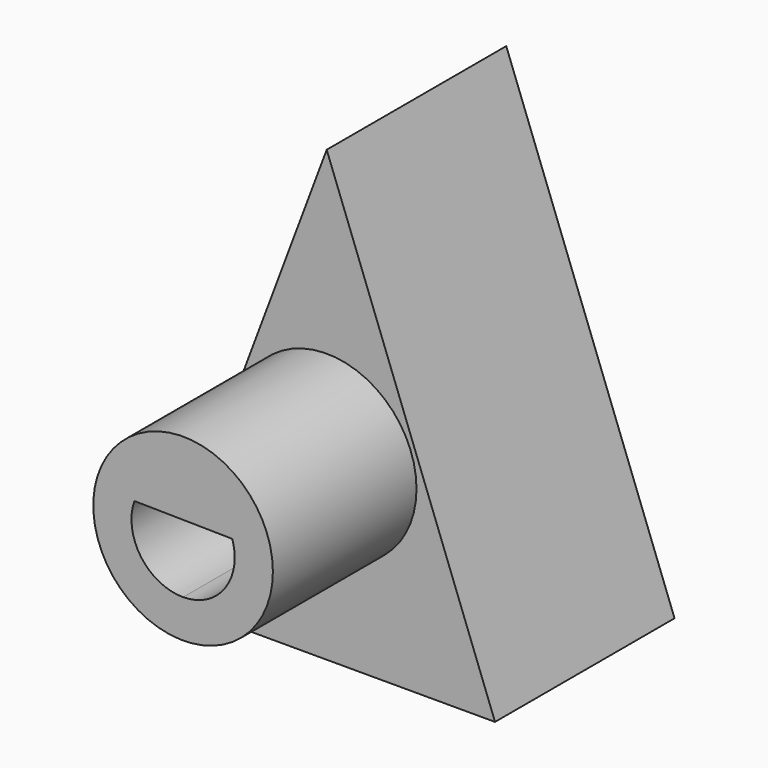
from build123d import *

# Parameters (mm, degrees)
F1_DEPTH = 12.7
F2_R     = 5.08201
F3_DEPTH = 10.16
F5_DEPTH = 10.16


with BuildPart() as f1:
    # F0 (on Front) → F1 (new body)
    with BuildSketch(Plane.XZ):
        Polygon((0, 12.812912), (-9.524995, -12.596868), (9.525005, -12.596868), align=None)
    extrude(amount=F1_DEPTH)

    # F2 (on face) → F3 (join)
    with BuildSketch(Plane.XZ.offset(12.7)):
        with Locations((0, -2.427088)):
            Circle(F2_R)
    extrude(amount=F3_DEPTH)

    # F4 (on face) → F5 (cut)
    with BuildSketch(Plane.XZ.offset(22.86)):
        with BuildLine():
            ThreePointArc((0, -5.348088), (2.065459, -4.492546), (2.921, -2.427088))
            ThreePointArc((2.921, -2.427088), (2.88615, -1.97722), (2.782431, -1.538088))
            Line((2.782431, -1.538088), (-2.754014, -1.453617))
            ThreePointArc((-2.754014, -1.453617), (-2.384927, -4.113612), (0, -5.348088))
        make_face()
    extrude(amount=-F5_DEPTH, mode=Mode.SUBTRACT)


solid = f1.part
